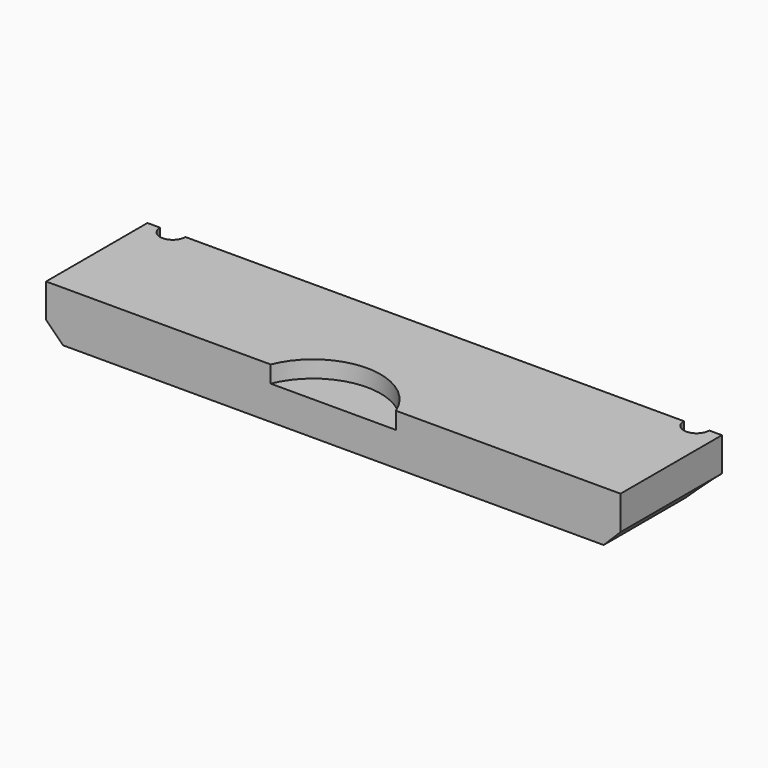
from build123d import *

# Parameters (mm, degrees)
CYLINDER2097_R               = 1.5
CYLINDER2097_DEPTH           = 50
CYLINDER2097_PLACEMENT_ANGLE = 45
CYLINDER2083_R               = 1.5
CYLINDER2083_DEPTH           = 50
CYLINDER2083_PLACEMENT_ANGLE = 45
CYLINDER2096_R               = 1.5
CYLINDER2096_DEPTH           = 50
CYLINDER2096_PLACEMENT_ANGLE = 45
CYLINDER2092_R               = 1.5
CYLINDER2092_DEPTH           = 50
CYLINDER2092_PLACEMENT_ANGLE = 45
CYLINDER2095_R               = 1.5
CYLINDER2095_DEPTH           = 50
CYLINDER2095_PLACEMENT_ANGLE = 45
CYLINDER2094_R               = 1.5
CYLINDER2094_DEPTH           = 50
CYLINDER2094_PLACEMENT_ANGLE = 45
CYLINDER2076_R               = 3
CYLINDER2076_DEPTH           = 3
CYLINDER2076_PLACEMENT_ANGLE = 45
CYLINDER2065_R               = 3
CYLINDER2065_DEPTH           = 3
CYLINDER2065_PLACEMENT_ANGLE = 45
CYLINDER2074_R               = 3
CYLINDER2074_DEPTH           = 3
CYLINDER2074_PLACEMENT_ANGLE = 45
CYLINDER2064_R               = 3
CYLINDER2064_DEPTH           = 3
CYLINDER2064_PLACEMENT_ANGLE = 45
CYLINDER2063_R               = 3
CYLINDER2063_DEPTH           = 3
CYLINDER2063_PLACEMENT_ANGLE = 45
CYLINDER2070_R               = 3
CYLINDER2070_DEPTH           = 3
CYLINDER2070_PLACEMENT_ANGLE = 45
CYLINDER2071_R               = 8
CYLINDER2071_DEPTH           = 6
BOX989_W                     = 68
BOX989_H                     = 15
BOX989_DEPTH                 = 6
CHAMFER081_SIZE              = 2


with BuildPart() as obj1:
    # Cylinder2097 → Cylinder2097 (new body)
    with BuildSketch(Plane.XY):
        Circle(CYLINDER2097_R)
    extrude(amount=CYLINDER2097_DEPTH)


with BuildPart() as obj1_1:
    # Cylinder2097 placement: moved
    add(obj1.part.moved(Location((20, 137, 0))).rotate(Axis((20, 137, 0), (0, 0, 1)), CYLINDER2097_PLACEMENT_ANGLE))


with BuildPart() as compound1087:
    # Cylinder2083 → Cylinder2083 (new body)
    with BuildSketch(Plane.XY):
        Circle(CYLINDER2083_R)
    extrude(amount=CYLINDER2083_DEPTH)


with BuildPart() as compound1087_1:
    # Cylinder2083 placement: moved
    add(compound1087.part.moved(Location((-20, 137, 0))).rotate(Axis((-20, 137, 0), (0, 0, 1)), CYLINDER2083_PLACEMENT_ANGLE))

    # Compound1087: union obj1
    add(obj1_1.part)


with BuildPart() as obj2:
    # Cylinder2096 → Cylinder2096 (new body)
    with BuildSketch(Plane.XY):
        Circle(CYLINDER2096_R)
    extrude(amount=CYLINDER2096_DEPTH)


with BuildPart() as obj2_1:
    # Cylinder2096 placement: moved
    add(obj2.part.moved(Location((31, 131, 0))).rotate(Axis((31, 131, 0), (0, 0, 1)), CYLINDER2096_PLACEMENT_ANGLE))


with BuildPart() as compound1088:
    # Cylinder2092 → Cylinder2092 (new body)
    with BuildSketch(Plane.XY):
        Circle(CYLINDER2092_R)
    extrude(amount=CYLINDER2092_DEPTH)


with BuildPart() as compound1088_1:
    # Cylinder2092 placement: moved
    add(compound1088.part.moved(Location((-31, 131, 0))).rotate(Axis((-31, 131, 0), (0, 0, 1)), CYLINDER2092_PLACEMENT_ANGLE))

    # Compound1088: union obj2
    add(obj2_1.part)


with BuildPart() as obj3:
    # Cylinder2095 → Cylinder2095 (new body)
    with BuildSketch(Plane.XY):
        Circle(CYLINDER2095_R)
    extrude(amount=CYLINDER2095_DEPTH)


with BuildPart() as obj3_1:
    # Cylinder2095 placement: moved
    add(obj3.part.moved(Location((31, 101, 0))).rotate(Axis((31, 101, 0), (0, 0, 1)), CYLINDER2095_PLACEMENT_ANGLE))


with BuildPart() as compound1110:
    # Cylinder2094 → Cylinder2094 (new body)
    with BuildSketch(Plane.XY):
        Circle(CYLINDER2094_R)
    extrude(amount=CYLINDER2094_DEPTH)


with BuildPart() as compound1110_1:
    # Cylinder2094 placement: moved
    add(compound1110.part.moved(Location((-31, 101, 0))).rotate(Axis((-31, 101, 0), (0, 0, 1)), CYLINDER2094_PLACEMENT_ANGLE))

    # Compound1112: union obj3
    add(obj3_1.part)

    # Compound1110: union Compound1087, Compound1088
    add(compound1087_1.part)
    add(compound1088_1.part)


with BuildPart() as obj4:
    # Cylinder2076 → Cylinder2076 (new body)
    with BuildSketch(Plane.XY):
        Circle(CYLINDER2076_R)
    extrude(amount=CYLINDER2076_DEPTH)


with BuildPart() as obj4_1:
    # Cylinder2076 placement: moved
    add(obj4.part.moved(Location((31, 131, 0))).rotate(Axis((31, 131, 0), (0, 0, 1)), CYLINDER2076_PLACEMENT_ANGLE))


with BuildPart() as compound1099:
    # Cylinder2065 → Cylinder2065 (new body)
    with BuildSketch(Plane.XY):
        Circle(CYLINDER2065_R)
    extrude(amount=CYLINDER2065_DEPTH)


with BuildPart() as compound1099_1:
    # Cylinder2065 placement: moved
    add(compound1099.part.moved(Location((-31, 131, 0))).rotate(Axis((-31, 131, 0), (0, 0, 1)), CYLINDER2065_PLACEMENT_ANGLE))

    # Compound1099: union obj4
    add(obj4_1.part)


with BuildPart() as compound1099_2:
    # Compound1099 placement: moved
    add(compound1099_1.part.moved(Location((0, 0, 25))))


with BuildPart() as obj5:
    # Cylinder2074 → Cylinder2074 (new body)
    with BuildSketch(Plane.XY):
        Circle(CYLINDER2074_R)
    extrude(amount=CYLINDER2074_DEPTH)


with BuildPart() as obj5_1:
    # Cylinder2074 placement: moved
    add(obj5.part.moved(Location((31, 101, 0))).rotate(Axis((31, 101, 0), (0, 0, 1)), CYLINDER2074_PLACEMENT_ANGLE))


with BuildPart() as compound1091:
    # Cylinder2064 → Cylinder2064 (new body)
    with BuildSketch(Plane.XY):
        Circle(CYLINDER2064_R)
    extrude(amount=CYLINDER2064_DEPTH)


with BuildPart() as compound1091_1:
    # Cylinder2064 placement: moved
    add(compound1091.part.moved(Location((-31, 101, 0))).rotate(Axis((-31, 101, 0), (0, 0, 1)), CYLINDER2064_PLACEMENT_ANGLE))

    # Compound1091: union obj5
    add(obj5_1.part)


with BuildPart() as compound1091_2:
    # Compound1091 placement: moved
    add(compound1091_1.part.moved(Location((0, 0, 21))))


with BuildPart() as obj6:
    # Cylinder2063 → Cylinder2063 (new body)
    with BuildSketch(Plane.XY):
        Circle(CYLINDER2063_R)
    extrude(amount=CYLINDER2063_DEPTH)


with BuildPart() as obj6_1:
    # Cylinder2063 placement: moved
    add(obj6.part.moved(Location((20, 137, 0))).rotate(Axis((20, 137, 0), (0, 0, 1)), CYLINDER2063_PLACEMENT_ANGLE))


with BuildPart() as compound1096:
    # Cylinder2070 → Cylinder2070 (new body)
    with BuildSketch(Plane.XY):
        Circle(CYLINDER2070_R)
    extrude(amount=CYLINDER2070_DEPTH)


with BuildPart() as compound1096_1:
    # Cylinder2070 placement: moved
    add(compound1096.part.moved(Location((-20, 137, 0))).rotate(Axis((-20, 137, 0), (0, 0, 1)), CYLINDER2070_PLACEMENT_ANGLE))

    # Compound1097: union obj6
    add(obj6_1.part)


with BuildPart() as compound1096_2:
    # Compound1097 placement: moved
    add(compound1096_1.part.moved(Location((0, 0, 25))))

    # Compound1096: union Compound1099, Compound1091
    add(compound1099_2.part)
    add(compound1091_2.part)


with BuildPart() as obj7:
    # Cylinder2071 → Cylinder2071 (new body)
    with BuildSketch(Plane(origin=(0, 83, 25), x_dir=(1, 0, 0), z_dir=(0, 0, 1))):
        Circle(CYLINDER2071_R)
    extrude(amount=CYLINDER2071_DEPTH)


with BuildPart() as cut690:
    # Box989 → Box989 (new body)
    with BuildSketch(Plane(origin=(-34, 86, 21), x_dir=(1, 0, 0), z_dir=(0, 0, 1))):
        with Locations((34, 7.5)):
            Rectangle(BOX989_W, BOX989_H)
    extrude(amount=BOX989_DEPTH)

    # Cut702: cut obj7
    add(obj7.part, mode=Mode.SUBTRACT)

    # Cut700: cut Compound1096
    add(compound1096_2.part, mode=Mode.SUBTRACT)

    # Chamfer081
    chamfer081_edges = [cut690.edges().sort_by_distance(p)[0] for p in [
        (-34, 93.5, 21),
        (34, 93.5, 21),
    ]]
    chamfer(chamfer081_edges, length=CHAMFER081_SIZE)

    # Cut690: cut Compound1110
    add(compound1110_1.part, mode=Mode.SUBTRACT)


solid = cut690.part
